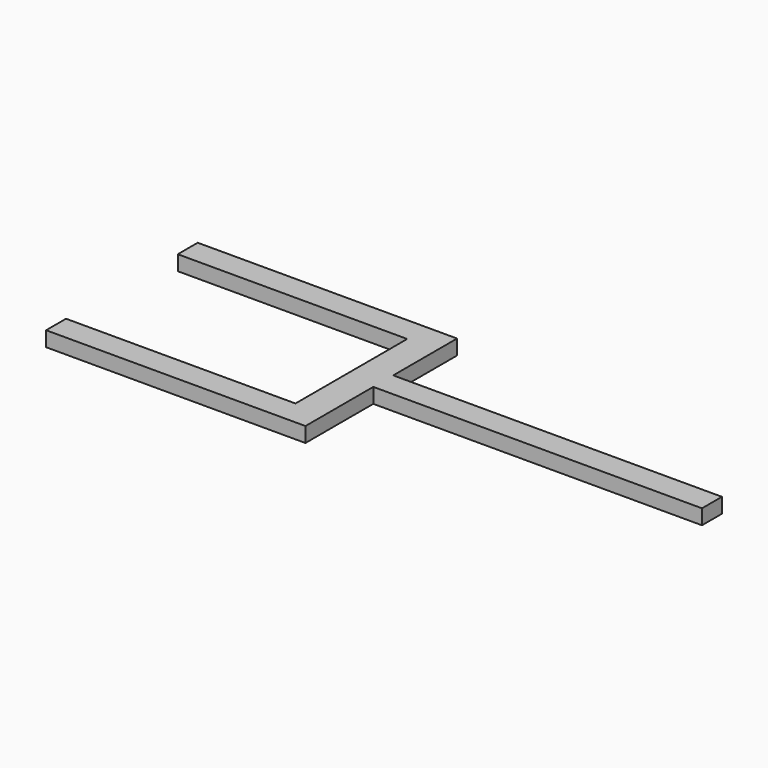
from build123d import *

# Parameters (mm, degrees)
BOX059_W     = 3
BOX059_H     = 19
BOX059_DEPTH = 1.5
BOX060_W     = 33.2
BOX060_H     = 2.5
BOX060_DEPTH = 1.5
BOX057_W     = 26
BOX057_H     = 2.5
BOX057_DEPTH = 1.5
BOX058_W     = 26
BOX058_H     = 2.5
BOX058_DEPTH = 1.5


with BuildPart() as obj1:
    # Box059 → Box059 (new body)
    with BuildSketch(Plane(origin=(-8.5, -9.5, -8), x_dir=(1, 0, 0), z_dir=(0, 0, 1))):
        with Locations((1.5, 9.5)):
            Rectangle(BOX059_W, BOX059_H)
    extrude(amount=BOX059_DEPTH)


with BuildPart() as obj2:
    # Box060 → Box060 (new body)
    with BuildSketch(Plane(origin=(-5.75, -1, -8), x_dir=(1, 0, 0), z_dir=(0, 0, 1))):
        with Locations((16.6, 1.25)):
            Rectangle(BOX060_W, BOX060_H)
    extrude(amount=BOX060_DEPTH)


with BuildPart() as obj3:
    # Box057 → Box057 (new body)
    with BuildSketch(Plane(origin=(-31.5, 7, -8), x_dir=(1, 0, 0), z_dir=(0, 0, 1))):
        with Locations((13, 1.25)):
            Rectangle(BOX057_W, BOX057_H)
    extrude(amount=BOX057_DEPTH)


with BuildPart() as fusion064:
    # Box058 → Box058 (new body)
    with BuildSketch(Plane(origin=(-31.5, -9.5, -8), x_dir=(1, 0, 0), z_dir=(0, 0, 1))):
        with Locations((13, 1.25)):
            Rectangle(BOX058_W, BOX058_H)
    extrude(amount=BOX058_DEPTH)

    # Fusion064: union obj1, obj2, obj3
    add(obj1.part)
    add(obj2.part)
    add(obj3.part)


solid = fusion064.part
